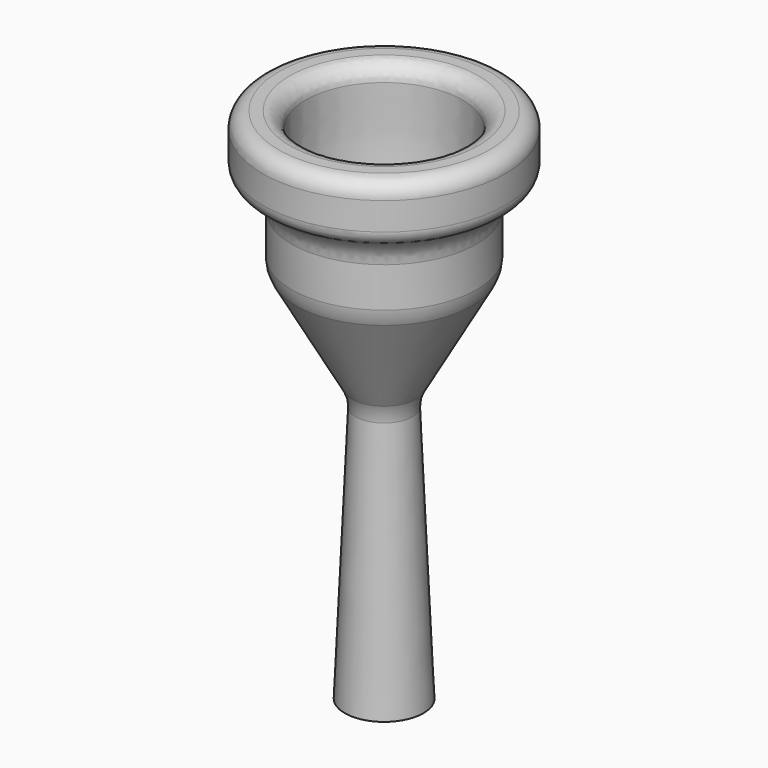
from build123d import *

# Parameters (mm, degrees)
F2_R = 2.54
F3_R = 5.08


with BuildPart() as f1:
    # F0 (on Right) → F1 (revolve)
    with BuildSketch(Plane.YZ):
        with BuildLine():
            Line((6.2992, -48.12), (4.4320033194, -5.5500445782))
            Line((4.4320033194, -5.5500445782), (14.7828, 12.9437427968))
            Line((14.7828, 12.9437427968), (14.7828, 25.1377))
            Line((14.7828, 25.1377), (19.431, 25.1377))
            Line((19.431, 25.1377), (19.431, 34.65))
            Line((19.431, 34.65), (12.573, 34.65))
            add(Edge.make_bspline(
                [(3.3398033194, 0), (5.2834041409, 4.0609219444), (13.9291986198, 12.3239642156), (12.4965674617, 27.0232269442), (12.573, 34.65)],
                knots=[0, 0, 0, 0, 0.4533021056, 1, 1, 1, 1], degree=3))
            Line((3.3398033194, 0), (5.207, -48.12))
            Line((5.207, -48.12), (6.2992, -48.12))
        make_face()
    revolve(axis=Axis((0, 0, 17.325), (0, 0, 1)))

    # F2
    f2_edges = [f1.edges().sort_by_distance(p)[0] for p in [
        (0, -19.431, 34.65),
        (0, -12.573, 34.65),
        (0, -19.431, 25.1377),
    ]]
    fillet(f2_edges, radius=F2_R)

    # F3
    f3_edges = [f1.edges().sort_by_distance(p)[0] for p in [
        (0, -14.7828, 25.1377),
        (0, -14.7828, 12.943743),
        (0, -4.432003, -5.550045),
        (0, 9.607402, 3.696849),
    ]]
    fillet(f3_edges, radius=F3_R)


solid = f1.part
